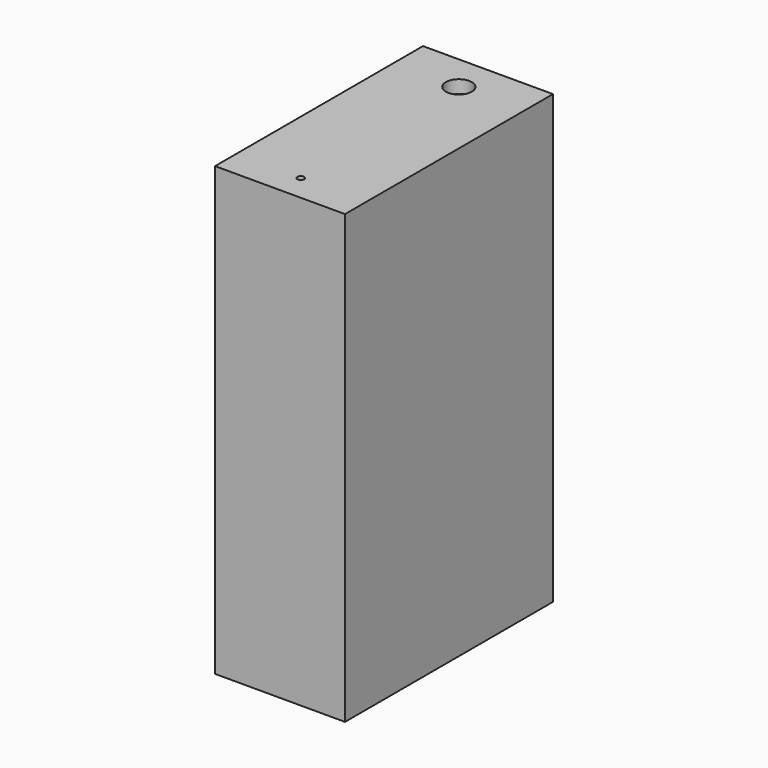
from build123d import *

# Parameters (mm, degrees)
F0_W     = 250
F0_H     = 500
F1_DEPTH = 860
F2_R     = 25
F2_R_2   = 6.5
F3_DEPTH = 25
F4_R     = 6.5
F5_DEPTH = 25


with BuildPart() as f1:
    # F0 (on Top) → F1 (new body)
    with BuildSketch(Plane.XY):
        with Locations((4.553568, 192.676917)):
            Rectangle(F0_W, F0_H)
    extrude(amount=F1_DEPTH)

    # F2 (on face) → F3 (cut)
    with BuildSketch(Plane.XY.offset(860)):
        with Locations((4.553568, 372.676917)):
            Circle(F2_R)
        with Locations((4.553568, -7.323083)):
            Circle(F2_R_2)
    extrude(amount=-F3_DEPTH, mode=Mode.SUBTRACT)

    # F4 (on face) → F5 (cut)
    with BuildSketch(Plane(origin=(0, 0, 0), x_dir=(1, 0, 0), z_dir=(0, 0, -1))):
        with Locations((-35.446432, -12.676917)):
            Circle(F4_R)
    extrude(amount=-F5_DEPTH, mode=Mode.SUBTRACT)


solid = f1.part
